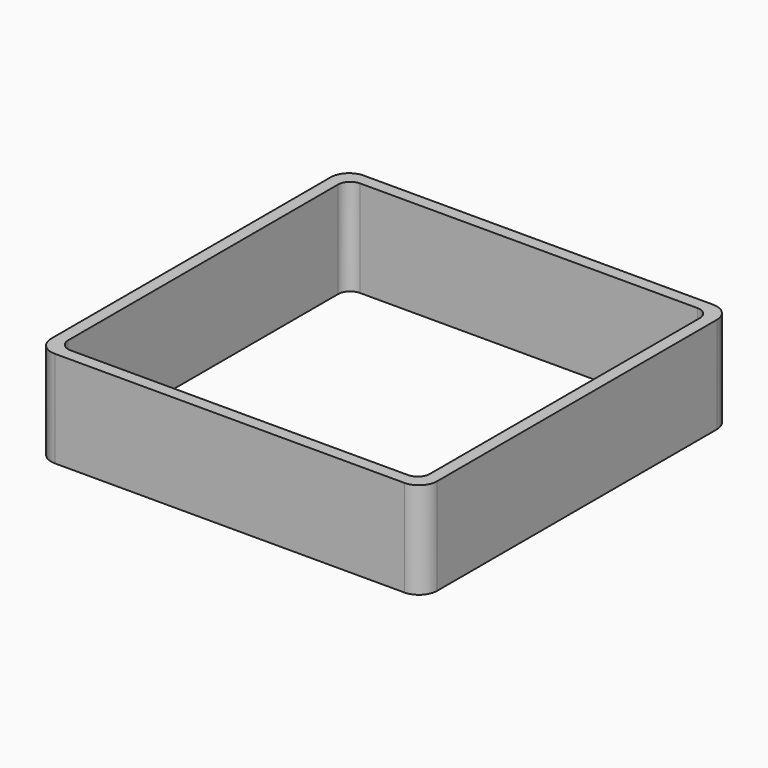
from build123d import *

# Parameters (mm, degrees)
EXTRUDE_DEPTH = 50


with BuildPart() as part:
    # Sketch → Extrude (new body)
    with BuildSketch(Plane.XY):
        with BuildLine():
            Line((-90.55, 100), (90.55, 100))
            ThreePointArc((100, 90.55), (97.232159, 97.232159), (90.55, 100))
            Line((100, 90.55), (100, -90.55))
            ThreePointArc((90.55, -100), (97.232159, -97.232159), (100, -90.55))
            Line((90.55, -100), (-90.55, -100))
            ThreePointArc((-100, -90.55), (-97.232159, -97.232159), (-90.55, -100))
            Line((-100, -90.55), (-100, 90.55))
            ThreePointArc((-90.55, 100), (-97.232159, 97.232159), (-100, 90.55))
        make_face()
        with BuildLine():
            Line((-87.4, 93.7), (87.4, 93.7))
            ThreePointArc((93.7, 87.4), (91.854773, 91.854773), (87.4, 93.7))
            Line((93.7, 87.4), (93.7, -87.4))
            ThreePointArc((87.4, -93.7), (91.854773, -91.854773), (93.7, -87.4))
            Line((87.4, -93.7), (-87.4, -93.7))
            ThreePointArc((-93.7, -87.4), (-91.854773, -91.854773), (-87.4, -93.7))
            Line((-93.7, -87.4), (-93.7, 87.4))
            ThreePointArc((-87.4, 93.7), (-91.854773, 91.854773), (-93.7, 87.4))
        make_face(mode=Mode.SUBTRACT)
    extrude(amount=EXTRUDE_DEPTH)


solid = part.part
